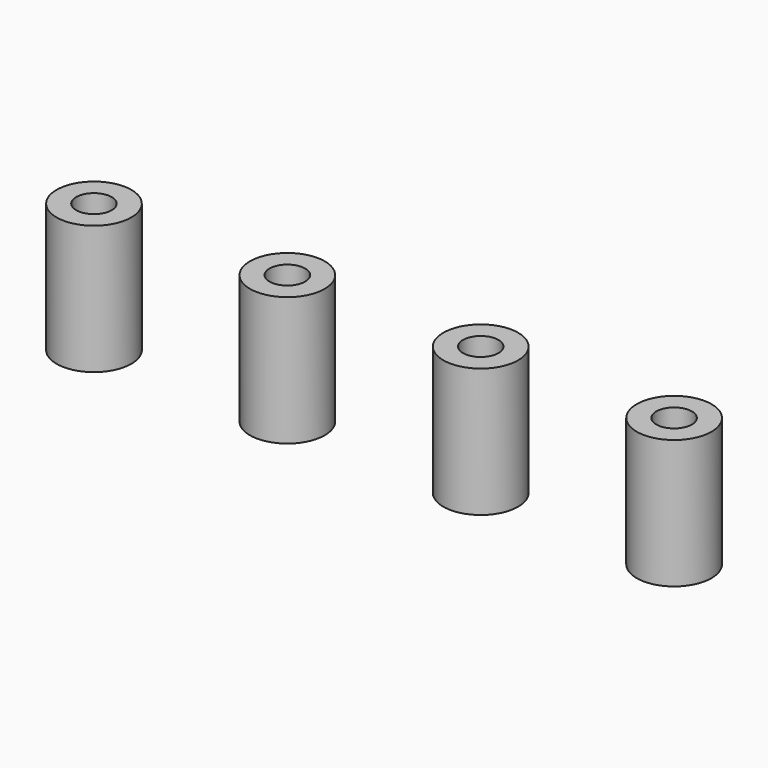
from build123d import *

# Parameters (mm, degrees)
CYLINDER013_R     = 1.38
CYLINDER013_DEPTH = 15
CYLINDER014_R     = 1.38
CYLINDER014_DEPTH = 15
CYLINDER015_R     = 1.38
CYLINDER015_DEPTH = 15
CYLINDER012_R     = 1.38
CYLINDER012_DEPTH = 15
CYLINDER008_R     = 2.9
CYLINDER008_DEPTH = 10
CYLINDER009_R     = 2.9
CYLINDER009_DEPTH = 10
CYLINDER011_R     = 2.9
CYLINDER011_DEPTH = 10
CYLINDER010_R     = 2.9
CYLINDER010_DEPTH = 10


with BuildPart() as zylinder005:
    # Cylinder013 → Cylinder013 (new body)
    with BuildSketch(Plane(origin=(22, 8, -2), x_dir=(1, 0, 0), z_dir=(0, 0, 1))):
        Circle(CYLINDER013_R)
    extrude(amount=CYLINDER013_DEPTH)


with BuildPart() as zylinder006:
    # Cylinder014 → Cylinder014 (new body)
    with BuildSketch(Plane(origin=(37, 8, -2), x_dir=(1, 0, 0), z_dir=(0, 0, 1))):
        Circle(CYLINDER014_R)
    extrude(amount=CYLINDER014_DEPTH)


with BuildPart() as zylinder007:
    # Cylinder015 → Cylinder015 (new body)
    with BuildSketch(Plane(origin=(52, 8, -2), x_dir=(1, 0, 0), z_dir=(0, 0, 1))):
        Circle(CYLINDER015_R)
    extrude(amount=CYLINDER015_DEPTH)


with BuildPart() as fusion011:
    # Cylinder012 → Cylinder012 (new body)
    with BuildSketch(Plane(origin=(7, 8, -2), x_dir=(1, 0, 0), z_dir=(0, 0, 1))):
        Circle(CYLINDER012_R)
    extrude(amount=CYLINDER012_DEPTH)

    # Fusion011: union Zylinder005, Zylinder006, Zylinder007
    add(zylinder005.part)
    add(zylinder006.part)
    add(zylinder007.part)


with BuildPart() as zylinder009:
    # Cylinder008 → Cylinder008 (new body)
    with BuildSketch(Plane(origin=(7, 8, 0), x_dir=(1, 0, 0), z_dir=(0, 0, 1))):
        Circle(CYLINDER008_R)
    extrude(amount=CYLINDER008_DEPTH)


with BuildPart() as zylinder001:
    # Cylinder009 → Cylinder009 (new body)
    with BuildSketch(Plane(origin=(22, 8, 0), x_dir=(1, 0, 0), z_dir=(0, 0, 1))):
        Circle(CYLINDER009_R)
    extrude(amount=CYLINDER009_DEPTH)


with BuildPart() as zylinder003:
    # Cylinder011 → Cylinder011 (new body)
    with BuildSketch(Plane(origin=(52, 8, 0), x_dir=(1, 0, 0), z_dir=(0, 0, 1))):
        Circle(CYLINDER011_R)
    extrude(amount=CYLINDER011_DEPTH)


with BuildPart() as obj1:
    # Cylinder010 → Cylinder010 (new body)
    with BuildSketch(Plane(origin=(37, 8, 0), x_dir=(1, 0, 0), z_dir=(0, 0, 1))):
        Circle(CYLINDER010_R)
    extrude(amount=CYLINDER010_DEPTH)

    # Fusion012: union Zylinder009, Zylinder001, Zylinder003
    add(zylinder009.part)
    add(zylinder001.part)
    add(zylinder003.part)

    # Cut005: cut Fusion011
    add(fusion011.part, mode=Mode.SUBTRACT)


solid = obj1.part
